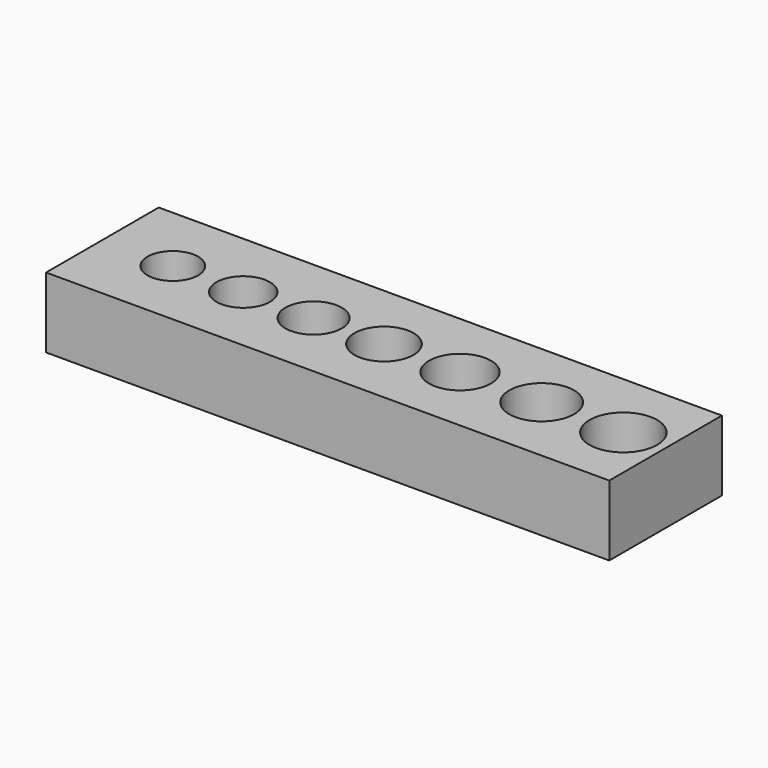
from build123d import *

# Parameters (mm, degrees)
F0_W     = 100
F0_H     = 25
F0_R     = 4.5
F0_R_2   = 4.75
F0_R_3   = 5
F0_R_4   = 5.25
F0_R_5   = 5.5
F0_R_6   = 5.75
F0_R_7   = 6
F1_DEPTH = 12.5


with BuildPart() as f1:
    # F0 (on Top) → F1 (new body)
    with BuildSketch(Plane.XY):
        with Locations((50, 12.5)):
            Rectangle(F0_W, F0_H)
        with Locations((12.5, 12.5)):
            Circle(F0_R, mode=Mode.SUBTRACT)
        with Locations((25, 12.5)):
            Circle(F0_R_2, mode=Mode.SUBTRACT)
        with Locations((37.5, 12.5)):
            Circle(F0_R_3, mode=Mode.SUBTRACT)
        with Locations((50, 12.5)):
            Circle(F0_R_4, mode=Mode.SUBTRACT)
        with Locations((63.5, 12.5)):
            Circle(F0_R_5, mode=Mode.SUBTRACT)
        with Locations((78, 12.5)):
            Circle(F0_R_6, mode=Mode.SUBTRACT)
        with Locations((92.5, 12.5)):
            Circle(F0_R_7, mode=Mode.SUBTRACT)
    extrude(amount=F1_DEPTH)


solid = f1.part
